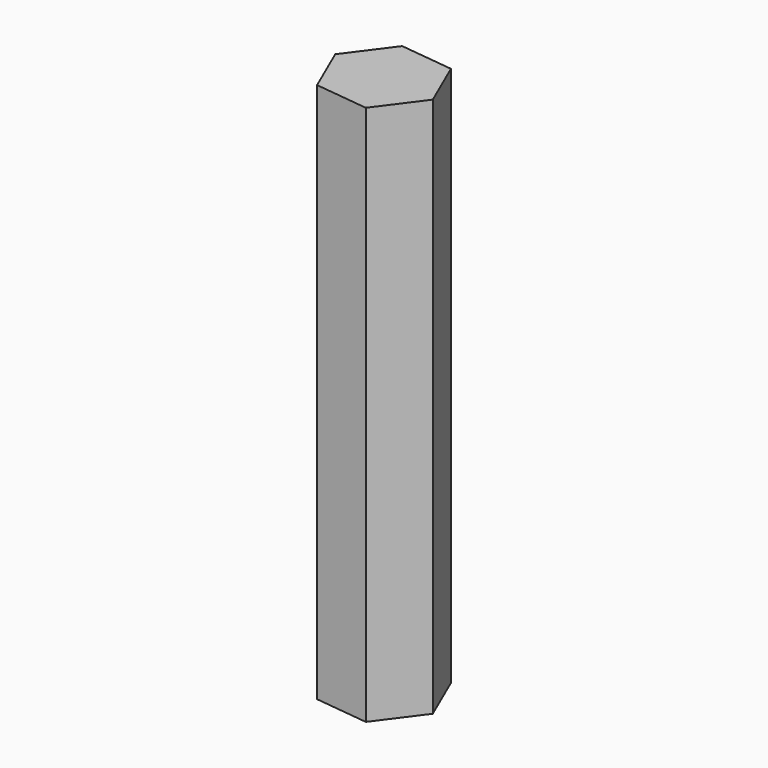
from build123d import *

# Parameters (mm, degrees)
PAD_DEPTH = 25


with BuildPart() as part:
    # Sketch → Pad (new body)
    with BuildSketch(Plane.XY):
        Polygon((-67.929628, 0), (-66.440105, 2.007815), (-67.434161, 4.301687), (-69.917742, 4.587745), (-71.407265, 2.57993), (-70.413208, 0.286058), align=None)
    extrude(amount=PAD_DEPTH)


solid = part.part
